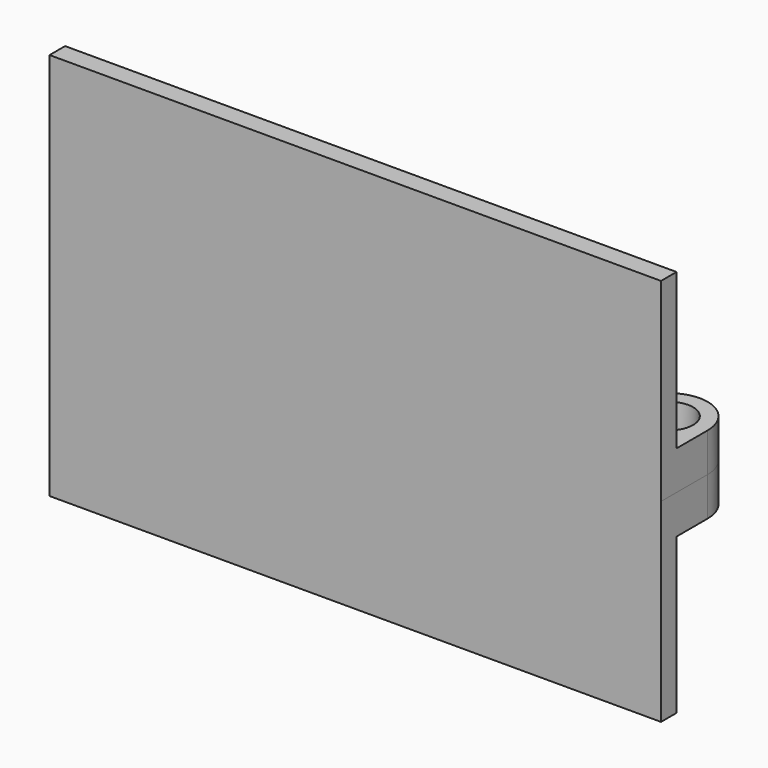
from build123d import *

# Parameters (mm, degrees)
F0_W          = 457.2
F0_H          = 254
F1_DEPTH      = 12.7
F3_R          = 15.875
F4_DEPTH      = 25.4
F4_DEPTH_BACK = 25.4
F6_DEPTH      = 127
F6_DEPTH_BACK = 127


with BuildPart() as f1:
    # F0 (on Front) → F1 (new body)
    with BuildSketch(Plane.XZ):
        with Locations((228.6, -127)):
            Rectangle(F0_W, F0_H)
    extrude(amount=F1_DEPTH)

    # F3 (on offset) → F4 (join, two sides)
    with BuildSketch(Plane.XY.offset(-127)) as f4_sk:
        with BuildLine():
            ThreePointArc((25.4, 25.4), (17.9605122421, 7.4394877579), (0, 0))
            Line((0, 0), (25.4, 0))
            Line((25.4, 0), (50.8, 0))
            Line((50.8, 0), (76.2, 0))
            Line((76.2, 0), (101.6, 0))
            ThreePointArc((101.6, 0), (83.6394877579, 7.4394877579), (76.2, 25.4))
            ThreePointArc((76.2, 25.4), (50.8, 50.8), (25.4, 25.4))
        make_face()
        with Locations((50.8, 25.4)):
            Circle(F3_R, mode=Mode.SUBTRACT)
        with BuildLine():
            Line((425.45, 0), (450.85, 0))
            ThreePointArc((450.85, 0), (432.8894877579, 7.4394877579), (425.45, 25.4))
            ThreePointArc((425.45, 25.4), (400.05, 50.8), (374.65, 25.4))
            ThreePointArc((374.65, 25.4), (367.2105122421, 7.4394877579), (349.25, 0))
            Line((349.25, 0), (374.65, 0))
            Line((374.65, 0), (400.05, 0))
            Line((400.05, 0), (425.45, 0))
        make_face()
        with Locations((400.05, 25.4)):
            Circle(F3_R, mode=Mode.SUBTRACT)
    extrude(amount=F4_DEPTH)
    extrude(f4_sk.sketch, amount=-F4_DEPTH_BACK)

    # F5 (on offset) → F6 (cut, two sides)
    with BuildSketch(Plane.XY.offset(-127)) as f6_sk:
        Polygon((25.4, -43.3393605053), (25.4, 0), (25.4, 52.3727163672), (-28.9033520967, 52.3727163672), (-28.9033520967, -43.3393605053), align=None)
        Polygon((425.45, 52.3727163672), (425.45, 0), (425.45, -43.3393605053), (479.7533520967, -43.3393605053), (479.7533520967, 52.3727163672), align=None)
    extrude(amount=-F6_DEPTH, mode=Mode.SUBTRACT)
    extrude(f6_sk.sketch, amount=F6_DEPTH_BACK, mode=Mode.SUBTRACT)


solid = f1.part
